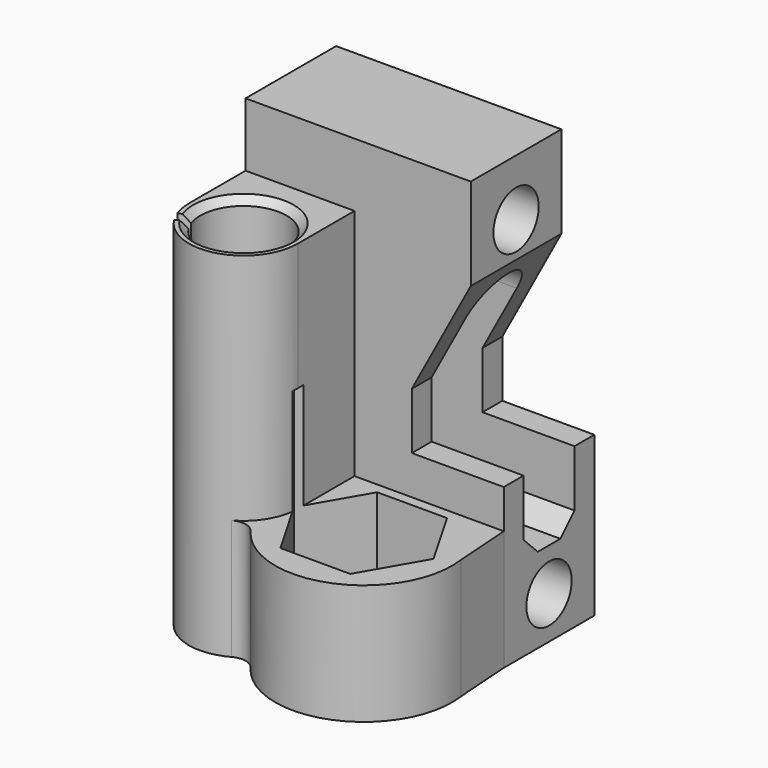
from build123d import *

# Parameters (mm, degrees)
PAD005_DEPTH    = 17
BOX_W           = 36.5
BOX_H           = 16
BOX_DEPTH       = 59
SKETCH_R        = 4
POCKET_DEPTH    = 36.501
POCKET001_DEPTH = 16.001
BOX001_W        = 2
BOX001_H        = 10
BOX001_DEPTH    = 21
PAD_DEPTH       = 3
PAD001_DEPTH    = 3
CHAMFER_SIZE    = 2.999
CHAMFER001_SIZE = 2.999
SKETCH005_R     = 1.5
POCKET002_DEPTH = 39.501
SKETCH006_W     = 10
SKETCH006_H     = 4.5
PAD002_DEPTH    = 2
POCKET003_DEPTH = 2
PAD003_DEPTH    = 50
CHAMFER002_SIZE = 1
CHAMFER003_SIZE = 1
SKETCH010_R     = 6
PAD004_DEPTH    = 17
POCKET004_DEPTH = 15


with BuildPart() as pad005:
    # Sketch012 → Pad005 (new body)
    with BuildSketch(Plane(origin=(0, 0, -28.5), x_dir=(1, 0, 0), z_dir=(0, 0, -1))):
        Polygon((19.2, 18), (18.5, 8), (14.2, 8), align=None)
    extrude(amount=-PAD005_DEPTH)


with BuildPart() as pocket001:
    # Box → Box (new body)
    with BuildSketch(Plane(origin=(-18, -8, -28.5), x_dir=(1, 0, 0), z_dir=(0, 0, 1))):
        with Locations((18.25, 8)):
            Rectangle(BOX_W, BOX_H)
    extrude(amount=BOX_DEPTH)

    # Sketch → Pocket (cut, through all)
    with BuildSketch(Plane(origin=(18.5, -8, -28.5), x_dir=(0, 1, 0), z_dir=(1, 0, 0))):
        with Locations((8, 51)):
            Circle(SKETCH_R)
        with Locations((8, 6)):
            Circle(SKETCH_R)
        with BuildLine():
            ThreePointArc((12.5, 39.499979), (8.00001, 44), (3.5, 39.5))
            Line((3.5, 39.5), (3.5, 14.5))
            Line((3.5, 14.5), (6, 12))
            Line((6, 12), (10, 12))
            Line((10, 12), (12.5, 14.5))
            Line((12.5, 14.5), (12.5, 39.499979))
        make_face()
    extrude(amount=-POCKET_DEPTH, mode=Mode.SUBTRACT)

    # Sketch001 → Pocket001 (cut, through all)
    with BuildSketch(Plane(origin=(-18, 8, -28.5), x_dir=(-1, 0, 0), z_dir=(0, 1, 0))):
        Polygon((-36.5, 59), (-36.5, 22.5), (-23.5, 22.5), (-23.5, 30.5), (-31.837266, 46), (-31.837266, 59), align=None)
    extrude(amount=-POCKET001_DEPTH, mode=Mode.SUBTRACT)


with BuildPart() as fusion001:
    # Box001 → Box001 (new body)
    with BuildSketch(Plane(origin=(-18, -5, -17.5), x_dir=(1, 0, 0), z_dir=(0, 0, 1))):
        with Locations((1, 5)):
            Rectangle(BOX001_W, BOX001_H)
    extrude(amount=BOX001_DEPTH)

    # Fusion: union Pocket001
    add(pocket001.part)

    # Sketch003 → Pad (new body)
    with BuildSketch(Plane(origin=(-18, 0, 0), x_dir=(0, -1, 0), z_dir=(-1, 0, 0))):
        with BuildLine():
            Line((-2.5, 0), (-2.5, -4))
            Line((-2.5, -4), (2.5, -4))
            Line((2.5, -4), (2.5, 0))
            ThreePointArc((2.5, 0), (0, 2.5), (-2.5, 0))
        make_face()
    extrude(amount=PAD_DEPTH)

    # Sketch004 → Pad001 (new body)
    with BuildSketch(Plane.YZ.offset(-16)):
        with BuildLine():
            ThreePointArc((2.5, 0), (0, 2.5), (-2.5, 0))
            Line((-2.5, 0), (-2.5, -4))
            Line((-2.5, -4), (2.5, -4))
            Line((2.5, -4), (2.5, 0))
        make_face()
    extrude(amount=PAD001_DEPTH)

    # Chamfer
    chamfer_edges = [fusion001.edges().sort_by_distance(p)[0] for p in [
        (-18, 0, -4),
    ]]
    chamfer(chamfer_edges, length=CHAMFER_SIZE)

    # Chamfer001
    chamfer001_edges = [fusion001.edges().sort_by_distance(p)[0] for p in [
        (-16, 0, -4),
    ]]
    chamfer(chamfer001_edges, length=CHAMFER001_SIZE)

    # Sketch005 → Pocket002 (cut, through all)
    with BuildSketch(Plane(origin=(-21, 0, 0), x_dir=(0, -1, 0), z_dir=(-1, 0, 0))):
        Circle(SKETCH005_R)
    extrude(amount=-POCKET002_DEPTH, mode=Mode.SUBTRACT)

    # Sketch006 → Pad002 (new body)
    with BuildSketch(Plane(origin=(-18, 0, 0), x_dir=(0, -1, 0), z_dir=(-1, 0, 0))):
        with Locations((0, 20.25)):
            Rectangle(SKETCH006_W, SKETCH006_H)
        with Locations((0, -24.55)):
            Rectangle(SKETCH006_W, SKETCH006_H)
    extrude(amount=-PAD002_DEPTH)

    # Sketch007 → Pocket003 (cut)
    with BuildSketch(Plane(origin=(-18, 0, 0), x_dir=(0, -1, 0), z_dir=(-1, 0, 0))):
        with BuildLine():
            Line((-1.527433, 26.519571), (0, 27.1))
            Line((0, 27.1), (1.527433, 26.519571))
            ThreePointArc((4.3, 22.5), (3.53963, 24.94152), (1.527433, 26.519571))
            Line((-4.3, 22.5), (4.3, 22.5))
            ThreePointArc((-1.527433, 26.519571), (-3.53963, 24.94152), (-4.3, 22.5))
        make_face()
        with BuildLine():
            Line((-1.527433, -18.480429), (0, -17.9))
            Line((0, -17.9), (1.527433, -18.480429))
            ThreePointArc((4.295346, -22.3), (3.481877, -19.976802), (1.527433, -18.480429))
            Line((-4.295346, -22.3), (4.295346, -22.3))
            ThreePointArc((-1.527433, -18.480429), (-3.481877, -19.976802), (-4.295346, -22.3))
        make_face()
    extrude(amount=-POCKET003_DEPTH, mode=Mode.SUBTRACT)

    # Sketch009 → Pad003 (new body)
    with BuildSketch(Plane(origin=(0, 0, -28.5), x_dir=(1, 0, 0), z_dir=(0, 0, -1))):
        with BuildLine():
            ThreePointArc((-17.535633, 20.633555), (-17.883023, 19.337073), (-18, 17.999963))
            Line((-18, 17.999963), (-18, 8))
            ThreePointArc((-18, 8), (-10.3, 6.568948), (-2.6, 8))
            Line((-2.6, 17.999963), (-2.6, 8))
            ThreePointArc((-2.6, 17.999963), (-8.162477, 25.397364), (-16.813266, 22.106991))
            Line((-16.813266, 22.106991), (-15.45986, 21.25359))
            ThreePointArc((-16.032125, 20.086323), (-4.822824, 15.314755), (-15.45986, 21.25359))
            Line((-17.535633, 20.633555), (-16.032125, 20.086323))
        make_face()
    extrude(amount=-PAD003_DEPTH)

    # Chamfer002
    chamfer002_edges = [fusion001.edges().sort_by_distance(p)[0] for p in [
        (-4.822824, -15.314755, 21.5),
    ]]
    chamfer(chamfer002_edges, length=CHAMFER002_SIZE)

    # Chamfer003
    chamfer003_edges = [fusion001.edges().sort_by_distance(p)[0] for p in [
        (-4.822824, -15.314755, -28.5),
    ]]
    chamfer(chamfer003_edges, length=CHAMFER003_SIZE)

    # Sketch010 → Pad004 (new body)
    with BuildSketch(Plane(origin=(0, 0, -28.5), x_dir=(1, 0, 0), z_dir=(0, 0, -1))):
        with BuildLine():
            ThreePointArc((14.2, 8), (15.510359, 26.867219), (-3.34804, 25.435515))
            ThreePointArc((-6.569019, 24.73571), (-4.826868, 24.479615), (-3.34804, 25.435515))
            ThreePointArc((-2.6, 17.999963), (-3.666042, 21.909041), (-6.569019, 24.73571))
            Line((-2.6, 17.999963), (-2.6, 8))
            Line((-2.6, 8), (14.2, 8))
        make_face()
        with Locations((6.7, 18)):
            Circle(SKETCH010_R, mode=Mode.SUBTRACT)
    extrude(amount=-PAD004_DEPTH)

    # Sketch011 → Pocket004 (cut, symmetric)
    with BuildSketch(Plane.XY.offset(-11.5)):
        Polygon((11.636345, -26.55), (16.57269, -18), (11.636345, -9.45), (1.763655, -9.45), (-3.17269, -18), (1.763655, -26.55), align=None)
    extrude(amount=POCKET004_DEPTH, both=True, mode=Mode.SUBTRACT)

    # Fusion001: union Pad005
    add(pad005.part)


solid = fusion001.part
